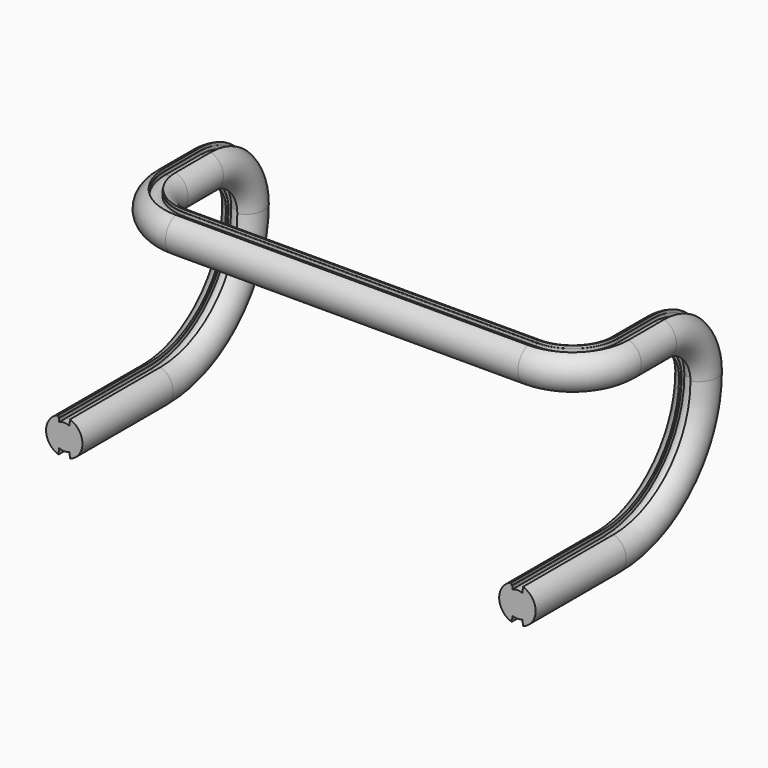
from build123d import *


with BuildPart() as f7:
    # F7: sweep along a path in F2, F0, F4
    with BuildLine(Plane.YZ.offset(180)) as f7_path:
        Line((-65, -130), (25, -130))
        ThreePointArc((25, -130), (88.6396103068, -103.6396103068), (115, -40))
        ThreePointArc((115, -40), (103.2842712475, -11.7157287525), (75, 0))
        Line((75, 0), (40, 0))
    with BuildLine(Plane.XY) as f7_path_2:
        ThreePointArc((180, 40), (168.2842712475, 11.7157287525), (140, 0))
        Line((140, 0), (-140, 0))
        ThreePointArc((-140, 0), (-168.2842712475, 11.7157287525), (-180, 40))
    with BuildLine(Plane.YZ.offset(-180)) as f7_path_3:
        Line((40, 0), (75, 0))
        ThreePointArc((75, 0), (103.2842712475, -11.7157287525), (115, -40))
        ThreePointArc((115, -40), (88.6396103068, -103.6396103068), (25, -130))
        Line((25, -130), (-65, -130))
    # F6 (on plane+point) → F7 (sweep)
    with BuildSketch(Plane.XZ.offset(65)):
        with BuildLine():
            Line((175.5, -138.9302855497), (175.5, -121.0697144503))
            ThreePointArc((175.5, -121.0697144503), (170, -130), (175.5, -138.9302855497))
        make_face()
        with BuildLine():
            ThreePointArc((176, -120.8348486101), (175.7483778989, -120.9488282798), (175.5, -121.0697144503))
            Line((175.5, -121.0697144503), (175.5, -138.9302855497))
            ThreePointArc((175.5, -138.9302855497), (175.7483778989, -139.0511717202), (176, -139.1651513899))
            Line((176, -139.1651513899), (176, -120.8348486101))
        make_face()
        with BuildLine():
            ThreePointArc((184, -120.8348486101), (180, -120), (176, -120.8348486101))
            Line((176, -120.8348486101), (176, -139.1651513899))
            ThreePointArc((176, -139.1651513899), (180, -140), (184, -139.1651513899))
            Line((184, -139.1651513899), (184, -120.8348486101))
        make_face()
        with BuildLine():
            ThreePointArc((184.5, -121.0697144503), (184.2516221011, -120.9488282798), (184, -120.8348486101))
            Line((184, -120.8348486101), (184, -139.1651513899))
            ThreePointArc((184, -139.1651513899), (184.2516221011, -139.0511717202), (184.5, -138.9302855497))
            Line((184.5, -138.9302855497), (184.5, -121.0697144503))
        make_face()
        with BuildLine():
            ThreePointArc((190, -130), (188.514693183, -124.7559557591), (184.5, -121.0697144503))
            Line((184.5, -121.0697144503), (184.5, -138.9302855497))
            ThreePointArc((184.5, -138.9302855497), (188.514693183, -135.2440442409), (190, -130))
        make_face()
        with BuildLine():
            Line((175.5, -121.0697144503), (175.5, -118.3380962103))
            ThreePointArc((175.5, -118.3380962103), (167.5, -130), (175.5, -141.6619037897))
            Line((175.5, -141.6619037897), (175.5, -138.9302855497))
            ThreePointArc((175.5, -138.9302855497), (170, -130), (175.5, -121.0697144503))
        make_face()
        with BuildLine():
            ThreePointArc((192.5, -130), (190.307764064, -122.9289321881), (184.5, -118.3380962103))
            Line((184.5, -118.3380962103), (184.5, -121.0697144503))
            ThreePointArc((184.5, -121.0697144503), (188.514693183, -124.7559557591), (190, -130))
            ThreePointArc((190, -130), (188.514693183, -135.2440442409), (184.5, -138.9302855497))
            Line((184.5, -138.9302855497), (184.5, -141.6619037897))
            ThreePointArc((184.5, -141.6619037897), (190.307764064, -137.0710678119), (192.5, -130))
        make_face()
        with BuildLine():
            Line((184.5, -116.2580451649), (184.5, -118.3380962103))
            ThreePointArc((184.5, -118.3380962103), (190.307764064, -122.9289321881), (192.5, -130))
            ThreePointArc((192.5, -130), (190.307764064, -137.0710678119), (184.5, -141.6619037897))
            Line((184.5, -141.6619037897), (184.5, -143.7419548351))
            ThreePointArc((184.5, -143.7419548351), (194.4599904111, -130), (184.5, -116.2580451649))
        make_face()
        with BuildLine():
            Line((175.5, -118.3380962103), (175.5, -116.2580451649))
            ThreePointArc((175.5, -116.2580451649), (165.5400095889, -130), (175.5, -143.7419548351))
            Line((175.5, -143.7419548351), (175.5, -141.6619037897))
            ThreePointArc((175.5, -141.6619037897), (167.5, -130), (175.5, -118.3380962103))
        make_face()
        with BuildLine():
            ThreePointArc((176, -118.1572807177), (175.7490385134, -118.2450297134), (175.5, -118.3380962103))
            Line((175.5, -118.3380962103), (175.5, -121.0697144503))
            ThreePointArc((175.5, -121.0697144503), (175.7483778989, -120.9488282798), (176, -120.8348486101))
            Line((176, -120.8348486101), (176, -118.1572807177))
        make_face()
        with BuildLine():
            Line((184.5, -118.3380962103), (184, -118.1572807177))
            Line((184, -118.1572807177), (184, -120.8348486101))
            ThreePointArc((184, -120.8348486101), (184.2516221011, -120.9488282798), (184.5, -121.0697144503))
            Line((184.5, -121.0697144503), (184.5, -118.3380962103))
        make_face()
        with BuildLine():
            Line((175.5, -138.9302855497), (175.5, -141.6619037897))
            Line((175.5, -141.6619037897), (176, -141.8427192823))
            Line((176, -141.8427192823), (176, -139.1651513899))
            ThreePointArc((176, -139.1651513899), (175.7483778989, -139.0511717202), (175.5, -138.9302855497))
        make_face()
        with BuildLine():
            Line((184, -139.1651513899), (184, -141.8427192823))
            Line((184, -141.8427192823), (184.5, -141.6619037897))
            Line((184.5, -141.6619037897), (184.5, -138.9302855497))
            ThreePointArc((184.5, -138.9302855497), (184.2516221011, -139.0511717202), (184, -139.1651513899))
        make_face()
    sweep(path=f7_path.line + f7_path_2.line + f7_path_3.line)


solid = f7.part
